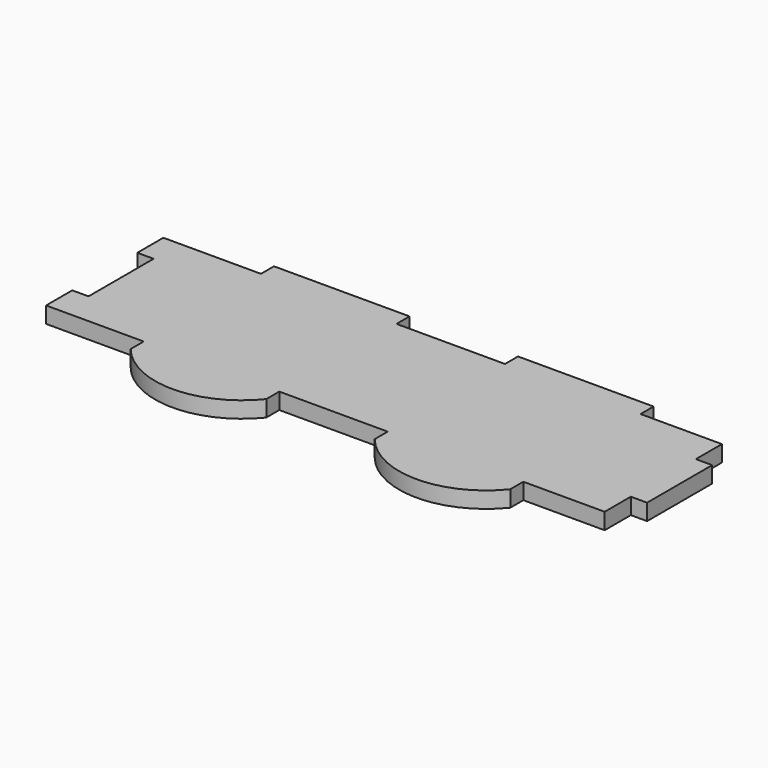
from build123d import *

# Parameters (mm, degrees)
EXTRUDE_DEPTH = 3


with BuildPart() as part:
    # Sketch → Extrude (new body)
    with BuildSketch(Plane.XY):
        with BuildLine():
            Line((40, -6.37), (40, -9.37))
            ThreePointArc((15, -9.37), (27.5, -15.37), (40, -9.37))
            Line((15, -9.37), (15, -6.37))
            Line((15, -6.37), (0, -6.37))
            Line((-3, -6.37), (0, -6.37))
            Line((-3, -0.34), (-3, -6.37))
            Line((-3, -0.34), (0, -0.34))
            Line((0, 14.66), (0, -0.34))
            Line((0, 14.66), (-3, 14.66))
            Line((-3, 14.66), (-3, 20.66))
            Line((-3, 20.66), (0, 20.66))
            Line((0, 20.66), (15, 20.66))
            Line((15, 23.66), (15, 20.66))
            Line((40, 23.66), (15, 23.66))
            Line((40, 20.66), (40, 23.66))
            Line((40, 20.66), (60, 20.66))
            Line((60, 23.66), (60, 20.66))
            Line((85, 23.66), (60, 23.66))
            Line((85, 20.66), (85, 23.66))
            Line((85, 20.66), (100, 20.66))
            Line((100, 20.66), (100, 14.66))
            Line((100, 14.66), (103, 14.66))
            Line((103, 14.66), (103, -0.34))
            Line((103, -0.34), (100, -0.34))
            Line((100, -0.34), (100, -6.37))
            Line((100, -6.37), (85, -6.37))
            Line((85, -6.37), (85, -9.37))
            ThreePointArc((60, -9.37), (72.5, -15.37), (85, -9.37))
            Line((60, -9.37), (60, -6.37))
            Line((60, -6.37), (40, -6.37))
        make_face()
    extrude(amount=EXTRUDE_DEPTH)


solid = part.part
